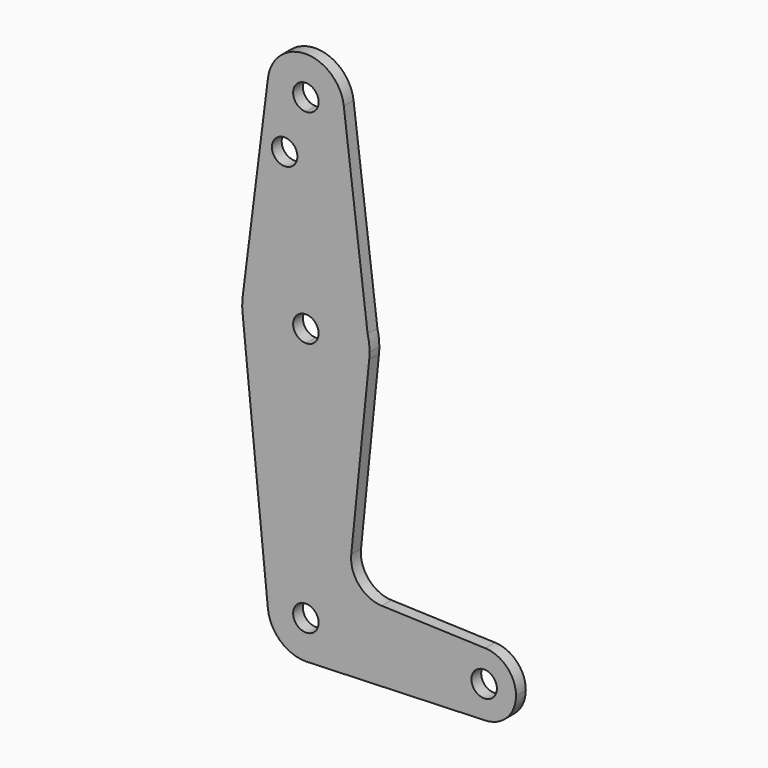
from build123d import *

# Parameters (mm, degrees)
F0_R     = 3.175
F1_DEPTH = 3.048


with BuildPart() as f1:
    # F0 (on Front) → F1 (new body)
    with BuildSketch(Plane.XZ):
        with BuildLine():
            ThreePointArc((9.525, 0), (6.7351920908, 6.7351920908), (0, 9.525))
            ThreePointArc((0, 9.525), (-7.063929059, 6.3895642457), (-9.4772553384, -0.9525))
            ThreePointArc((-9.4772553384, -0.9525), (-6.3895642457, -7.063929059), (0, -9.525))
            Line((0, -9.525), (0.6773435479, -9.500885786))
            ThreePointArc((0.6773435479, -9.500885786), (6.9705567315, -6.4912990883), (9.525, 0))
        make_face()
        with BuildLine():
            ThreePointArc((3.175, 0), (-2.2450640303, -2.2450640303), (0, 3.175))
            ThreePointArc((0, 3.175), (2.2450640303, 2.2450640303), (3.175, 0))
        make_face(mode=Mode.SUBTRACT)
        with BuildLine():
            ThreePointArc((-9.4772553384, -0.9525), (-7.063929059, 6.3895642457), (0, 9.525))
            Line((0, 9.525), (0, 47.625))
            ThreePointArc((0, 47.625), (-10.6492737428, 51.7267849017), (-15.7954255641, 61.9125))
            Line((-15.7954255641, 61.9125), (-9.4772553384, -0.9525))
        make_face()
        with BuildLine():
            Line((0, 47.625), (0, 9.525))
            ThreePointArc((0, 9.525), (6.7351920908, 6.7351920908), (9.525, 0))
            ThreePointArc((9.525, 0), (6.9705567315, -6.4912990883), (0.6773435479, -9.500885786))
            Line((0.6773435479, -9.500885786), (44.7324052746, -7.9324746146))
            ThreePointArc((44.7324052746, -7.9324746146), (36.5125, 0), (44.7324052746, 7.9324746146))
            Line((44.7324052746, 7.9324746146), (18.9341027877, 8.850924033))
            ThreePointArc((18.9341027877, 8.850924033), (13.2249738114, 11.5709798305), (11.3072231466, 17.5971800924))
            Line((11.3072231466, 17.5971800924), (15.7942028036, 61.9003804205))
            ThreePointArc((15.7942028036, 61.9003804205), (10.644756084, 51.722700101), (0, 47.625))
        make_face()
        with BuildLine():
            ThreePointArc((-15.7954255641, 61.9125), (-10.6492737428, 51.7267849017), (0, 47.625))
            Line((0, 47.625), (0, 60.325))
            ThreePointArc((0, 60.325), (-3.175, 63.5), (0, 66.675))
            Line((0, 66.675), (0, 79.375))
            ThreePointArc((0, 79.375), (-10.5003255158, 75.40625), (-15.7504882737, 65.484375))
            ThreePointArc((-15.7504882737, 65.484375), (-15.8737438155, 63.6997054867), (-15.7954255641, 61.9125))
        make_face()
        with BuildLine():
            Line((0, 60.325), (0, 47.625))
            ThreePointArc((0, 47.625), (10.644756084, 51.722700101), (15.7942028036, 61.9003804205))
            ThreePointArc((15.7942028036, 61.9003804205), (15.8547878338, 62.6991705884), (15.875, 63.5))
            Line((15.875, 63.5), (15.3974543628, 67.3644565138))
            ThreePointArc((15.3974543628, 67.3644565138), (9.76389722, 76.0172655192), (0, 79.375))
            Line((0, 79.375), (0, 66.675))
            ThreePointArc((0, 66.675), (2.2450640303, 65.7450640303), (3.175, 63.5))
            ThreePointArc((3.175, 63.5), (2.2450640303, 61.2549359697), (0, 60.325))
        make_face()
        with BuildLine():
            ThreePointArc((0, -9.525), (0.3388863295, -9.5189695375), (0.6773435479, -9.500885786))
            Line((0.6773435479, -9.500885786), (0, -9.525))
        make_face()
        with BuildLine():
            Line((-9.4502929642, 115.490625), (-15.7504882737, 65.484375))
            ThreePointArc((-15.7504882737, 65.484375), (-10.5003255158, 75.40625), (0, 79.375))
            Line((0, 79.375), (0, 104.775))
            ThreePointArc((0, 104.775), (-7.14375, 107.9998046905), (-9.4502929642, 115.490625))
        make_face()
        with Locations((-5.2933869883, 100.6259843707)):
            Circle(F0_R, mode=Mode.SUBTRACT)
        with BuildLine():
            Line((15.3974543628, 67.3644565138), (15.875, 63.5))
            ThreePointArc((15.875, 63.5), (15.7551612656, 65.4469253955), (15.3974543628, 67.3644565138))
        make_face()
        with BuildLine():
            ThreePointArc((44.7324052746, 7.9324746146), (36.5125, 0), (44.7324052746, -7.9324746146))
            ThreePointArc((44.7324052746, -7.9324746146), (50.1616327839, -5.5119104847), (52.3875, 0))
            ThreePointArc((52.3875, 0), (50.1616327839, 5.5119104847), (44.7324052746, 7.9324746146))
        make_face()
        with Locations((44.45, 0)):
            Circle(F0_R, mode=Mode.SUBTRACT)
        with BuildLine():
            Line((0, 104.775), (0, 79.375))
            ThreePointArc((0, 79.375), (9.76389722, 76.0172655192), (15.3974543628, 67.3644565138))
            Line((15.3974543628, 67.3644565138), (9.4530967593, 115.4681552373))
            ThreePointArc((9.4530967593, 115.4681552373), (9.5070071956, 114.8851830343), (9.525, 114.3))
            ThreePointArc((9.525, 114.3), (6.7351920908, 107.5648079092), (0, 104.775))
        make_face()
        with BuildLine():
            ThreePointArc((9.4530967593, 115.4681552373), (0.0113220085, 123.824993271), (-9.4502929642, 115.490625))
            ThreePointArc((-9.4502929642, 115.490625), (-7.14375, 107.9998046905), (0, 104.775))
            ThreePointArc((0, 104.775), (6.7351920908, 107.5648079092), (9.525, 114.3))
            ThreePointArc((9.525, 114.3), (9.5070071956, 114.8851830343), (9.4530967593, 115.4681552373))
        make_face()
        with BuildLine():
            ThreePointArc((3.175, 114.3), (2.2450640303, 112.0549359697), (0, 111.125))
            ThreePointArc((0, 111.125), (-2.2450640303, 116.5450640303), (3.175, 114.3))
        make_face(mode=Mode.SUBTRACT)
    extrude(amount=F1_DEPTH)


solid = f1.part
